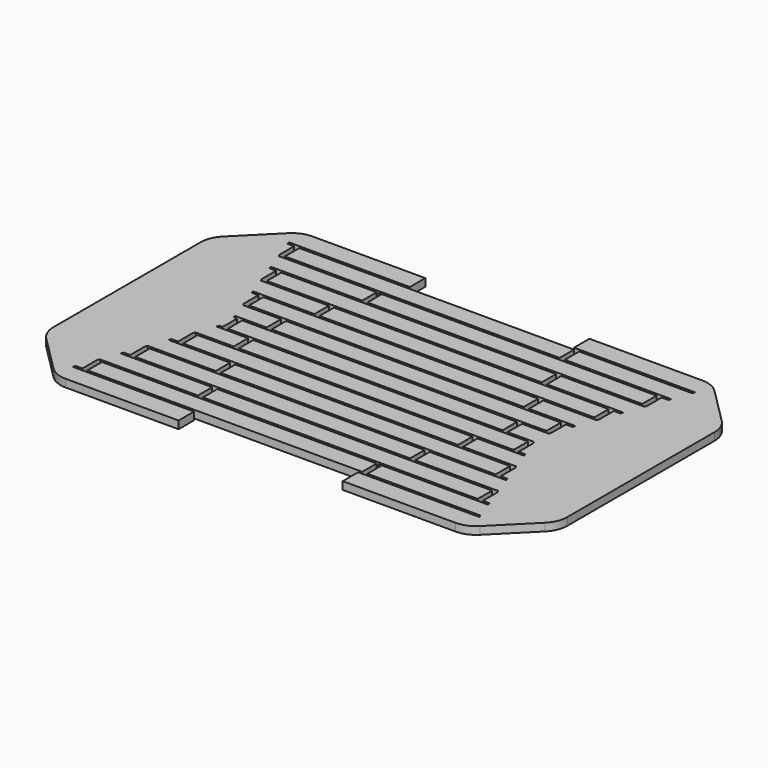
from build123d import *

# Parameters (mm, degrees)
F1_DEPTH = 1.5
F2_W     = 1
F2_H     = 3.5
F2_W_2   = 6.5002807656
F2_H_2   = 5.0998787582
F3_DEPTH = 1.2
F4_W     = 1
F4_H     = 3.5
F5_DEPTH = 1.2
F6_W     = 31.9364561249
F6_H     = 3.9368613809
F6_H_2   = 7.0019225776
F7_DEPTH = 25
F8_SIZE  = 10
F9_R     = 5


with BuildPart() as f1:
    # F0 (on Top) → F1 (new body)
    with BuildSketch(Plane.XY):
        Polygon((-13.5474587469, 30), (-50, 30), (-50, -30), (-13.5474587469, -30), (-13.5474587469, -26.25), (-39.5394276804, -26.25), (-39.3574425633, -25.75), (39.3574425633, -25.75), (39.5394276804, -26.25), (13.5474587469, -26.25), (13.5474587469, -30), (50, -30), (50, 30), (13.5474587469, 30), (13.5474587469, 26.25), (39.5394276804, 26.25), (39.3574425633, 25.75), (-39.3574425633, 25.75), (-39.5394276804, 26.25), (-13.5474587469, 26.25), align=None)
        Polygon((-38.0835467434, -22.25), (-37.9015616262, -21.75), (37.9015616262, -21.75), (38.0835467434, -22.25), align=None, mode=Mode.SUBTRACT)
        Polygon((-36.6276658063, -18.25), (-36.4456806892, -17.75), (36.4456806892, -17.75), (36.6276658063, -18.25), align=None, mode=Mode.SUBTRACT)
        Polygon((-35.1717848692, -14.25), (-34.9897997521, -13.75), (34.9897997521, -13.75), (35.1717848692, -14.25), align=None, mode=Mode.SUBTRACT)
        Polygon((-33.7159039322, -10.25), (-33.533918815, -9.75), (33.533918815, -9.75), (33.7159039322, -10.25), align=None, mode=Mode.SUBTRACT)
        Polygon((-32.2600229951, -6.25), (-32.078037878, -5.75), (32.078037878, -5.75), (32.2600229951, -6.25), align=None, mode=Mode.SUBTRACT)
        Polygon((-30.804142058, -2.25), (-30.6221569409, -1.75), (30.6221569409, -1.75), (30.804142058, -2.25), align=None, mode=Mode.SUBTRACT)
        Polygon((-30.6221569409, 1.75), (-30.804142058, 2.25), (30.804142058, 2.25), (30.6221569409, 1.75), align=None, mode=Mode.SUBTRACT)
        Polygon((-32.2600229951, 6.25), (-27.2258874029, 6.25), (32.2600229951, 6.25), (32.078037878, 5.75), (-32.078037878, 5.75), align=None, mode=Mode.SUBTRACT)
        Polygon((-33.533918815, 9.75), (-33.7159039322, 10.25), (33.7159039322, 10.25), (33.533918815, 9.75), align=None, mode=Mode.SUBTRACT)
        Polygon((-34.9897997521, 13.75), (-35.1717848692, 14.25), (35.1717848692, 14.25), (34.9897997521, 13.75), align=None, mode=Mode.SUBTRACT)
        Polygon((-36.4456806892, 17.75), (-36.6276658063, 18.25), (36.6276658063, 18.25), (36.4456806892, 17.75), align=None, mode=Mode.SUBTRACT)
        Polygon((-37.9015616262, 21.75), (-38.0835467434, 22.25), (38.0835467434, 22.25), (37.9015616262, 21.75), align=None, mode=Mode.SUBTRACT)
    extrude(amount=F1_DEPTH)

    # F2 (on face) → F3 (cut)
    with BuildSketch(Plane.XY.offset(1.5)):
        with Locations((-37.5835467434, 24)):
            Rectangle(F2_W, F2_H)
        with Locations((-34.6717848692, 16)):
            Rectangle(F2_W, F2_H)
        with Locations((-31.7600229951, 8)):
            Rectangle(F2_W, F2_H)
        with Locations((-29.4852090309, 0)):
            Rectangle(F2_W, F2_H)
        with Locations((-18.3241089995, 20)):
            Rectangle(F2_W, F2_H)
        with Locations((-21.2358708736, 12)):
            Rectangle(F2_W, F2_H)
        with Locations((-24.1476327478, 4)):
            Rectangle(F2_W, F2_H)
        with Locations((-12.7180876796, 28.7999393791)):
            Rectangle(F2_W_2, F2_H_2)
        with Locations((36.1276658063, 20)):
            Rectangle(F2_W, F2_H)
        with Locations((33.2159039322, 12)):
            Rectangle(F2_W, F2_H)
        with Locations((16.8682280624, 24)):
            Rectangle(F2_W, F2_H)
        with Locations((19.7799899366, 16)):
            Rectangle(F2_W, F2_H)
        with Locations((24.9665657749, 0)):
            Rectangle(F2_W, F2_H)
        with Locations((30.304142058, 4)):
            Rectangle(F2_W, F2_H)
        with Locations((22.6917518107, 8)):
            Rectangle(F2_W, F2_H)
        with Locations((12.7180876796, 28.7999393791)):
            Rectangle(F2_W_2, F2_H_2)
        with Locations((-18.3241089995, -20)):
            Rectangle(F2_W, F2_H)
        with Locations((16.8682280624, -24)):
            Rectangle(F2_W, F2_H)
        with Locations((-21.2358708736, -12)):
            Rectangle(F2_W, F2_H)
        with Locations((33.2159039322, -12)):
            Rectangle(F2_W, F2_H)
        with Locations((22.6917518107, -8)):
            Rectangle(F2_W, F2_H)
        with Locations((36.1276658063, -20)):
            Rectangle(F2_W, F2_H)
        with Locations((-24.1476327478, -4)):
            Rectangle(F2_W, F2_H)
        with Locations((-31.7600229951, -8)):
            Rectangle(F2_W, F2_H)
        with Locations((19.7799899366, -16)):
            Rectangle(F2_W, F2_H)
        with Locations((30.304142058, -4)):
            Rectangle(F2_W, F2_H)
        with Locations((-34.6717848692, -16)):
            Rectangle(F2_W, F2_H)
        with Locations((-37.5835467434, -24)):
            Rectangle(F2_W, F2_H)
        with Locations((-12.7180876796, -28.7999393791)):
            Rectangle(F2_W_2, F2_H_2)
        with Locations((12.7180876796, -28.7999393791)):
            Rectangle(F2_W_2, F2_H_2)
    extrude(amount=-F3_DEPTH, mode=Mode.SUBTRACT)

    # F4 (on face) → F5 (cut)
    with BuildSketch(Plane(origin=(0, 0, 0), x_dir=(1, 0, 0), z_dir=(0, 0, -1))):
        with Locations((-18.3241089995, -24)):
            Rectangle(F4_W, F4_H)
        with Locations((-15.4123471254, -16)):
            Rectangle(F4_W, F4_H)
        with Locations((-12.5005852512, -8)):
            Rectangle(F4_W, F4_H)
        with Locations((16.8682280624, -20)):
            Rectangle(F4_W, F4_H)
        with Locations((13.9564661883, -12)):
            Rectangle(F4_W, F4_H)
        with Locations((11.0447043142, -4)):
            Rectangle(F4_W, F4_H)
        with Locations((13.9564661883, 12)):
            Rectangle(F4_W, F4_H)
        with Locations((-15.4123471254, 16)):
            Rectangle(F4_W, F4_H)
        with Locations((16.8682280624, 20)):
            Rectangle(F4_W, F4_H)
        with Locations((-18.3241089995, 24)):
            Rectangle(F4_W, F4_H)
        with Locations((-12.5005852512, 8)):
            Rectangle(F4_W, F4_H)
        with Locations((11.0447043142, 4)):
            Rectangle(F4_W, F4_H)
        with Locations((-10.2257712871, 0)):
            Rectangle(F4_W, F4_H)
    extrude(amount=-F5_DEPTH, mode=Mode.SUBTRACT)

    # F6 (on face) → F7 (cut)
    with BuildSketch(Plane.XY.offset(1.5)):
        with Locations((0, 28.0315693095)):
            Rectangle(F6_W, F6_H)
        with Locations((0, -29.7509612888)):
            Rectangle(F6_W, F6_H_2)
    extrude(amount=-F7_DEPTH, mode=Mode.SUBTRACT)

    # F8
    f8_edges = [f1.edges().sort_by_distance(p)[0] for p in [
        (-50, -30, 0.75),
        (50, -30, 0.75),
        (50, 30, 0.75),
        (-50, 30, 0.75),
    ]]
    chamfer(f8_edges, length=F8_SIZE)

    # F9
    f9_edges = [f1.edges().sort_by_distance(p)[0] for p in [
        (-50, 20, 0.75),
        (-40, 30, 0.75),
        (-50, -20, 0.75),
        (-40, -30, 0.75),
        (40, -30, 0.75),
        (50, -20, 0.75),
        (50, 20, 0.75),
        (40, 30, 0.75),
    ]]
    fillet(f9_edges, radius=F9_R)


solid = f1.part
